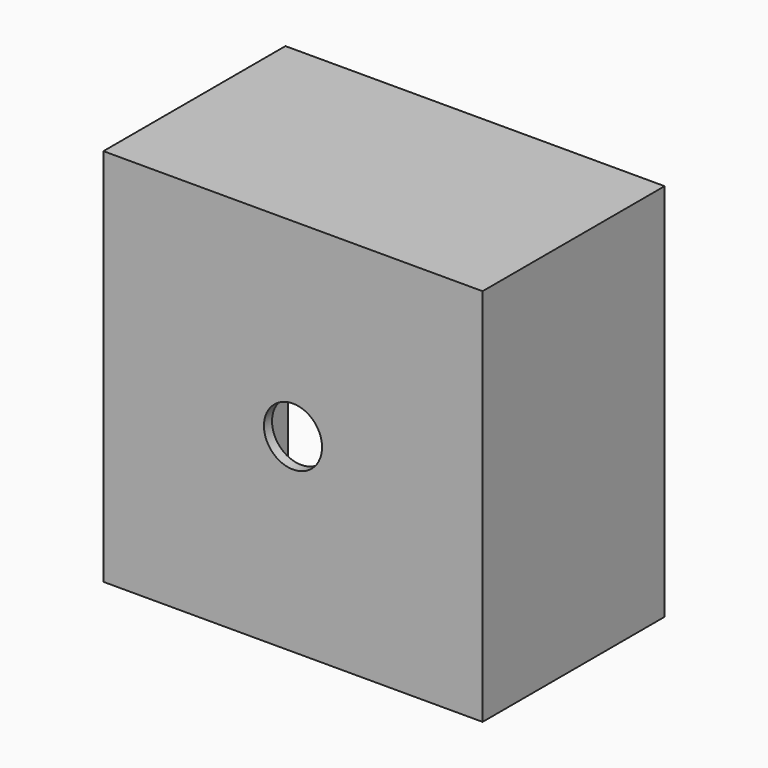
from build123d import *

# Parameters (mm, degrees)
F0_W     = 76.2
F0_H     = 76.2
F1_DEPTH = 38.1
F2_W     = 74.168
F2_H     = 74.168
F3_DEPTH = 36.068
F4_W     = 75.2094
F4_H     = 75.2094
F4_W_2   = 76.2
F4_H_2   = 76.2
F5_DEPTH = 7.62
F6_R     = 5.840403
F7_DEPTH = 12.7


with BuildPart() as f1:
    # F0 (on Front) → F1 (new body)
    with BuildSketch(Plane.XZ):
        Rectangle(F0_W, F0_H)
    extrude(amount=F1_DEPTH)

    # F2 (on face) → F3 (cut)
    with BuildSketch(Plane(origin=(0, 0, 0), x_dir=(-1, 0, 0), z_dir=(0, 1, 0))):
        Rectangle(F2_W, F2_H)
    extrude(amount=-F3_DEPTH, mode=Mode.SUBTRACT)

    # F4 (on face) → F5 (join)
    with BuildSketch(Plane(origin=(0, 0, 0), x_dir=(-1, 0, 0), z_dir=(0, 1, 0))):
        Rectangle(F4_W, F4_H)
        Rectangle(F4_W_2, F4_H_2)
        Rectangle(F4_W, F4_H, mode=Mode.SUBTRACT)
    extrude(amount=F5_DEPTH)

    # F6 (on face) → F7 (cut)
    with BuildSketch(Plane.XZ.offset(38.1)):
        Circle(F6_R)
    extrude(amount=-F7_DEPTH, mode=Mode.SUBTRACT)


solid = f1.part
